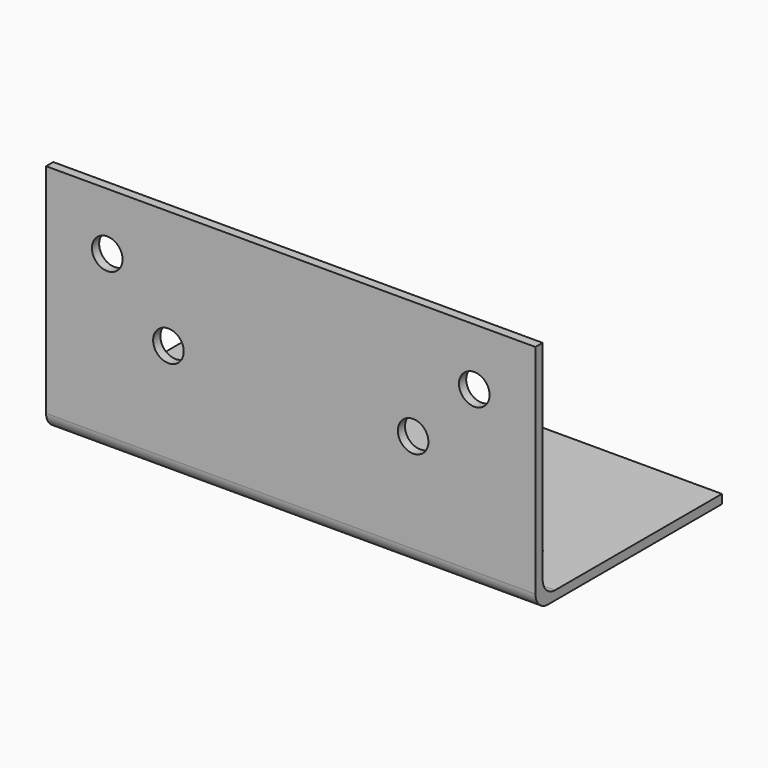
from build123d import *

# Parameters (mm, degrees)
F1_DEPTH = 40
F2_R     = 2.5
F3_DEPTH = 12.7
F4_R     = 2.5
F5_DEPTH = 12.7


with BuildPart() as f1:
    # F0 (on Right) → F1 (new body, symmetric)
    with BuildSketch(Plane.YZ):
        with BuildLine():
            Line((1.4732, 38.1), (0, 38.1))
            Line((0, 38.1), (0, 2.54))
            ThreePointArc((0, 2.54), (0.7439487758, 0.7439487758), (2.54, 0))
            Line((2.54, 0), (38.1, 0))
            Line((38.1, 0), (38.1, 1.4732))
            Line((38.1, 1.4732), (4.0132, 1.4732))
            ThreePointArc((4.0132, 1.4732), (2.2171487758, 2.2171487758), (1.4732, 4.0132))
            Line((1.4732, 4.0132), (1.4732, 38.1))
        make_face()
    extrude(amount=F1_DEPTH, both=True)

    # F2 (on Top) → F3 (cut, symmetric)
    with BuildSketch(Plane.XY):
        with Locations((-30, 10)):
            Circle(F2_R)
        with Locations((0, 10)):
            Circle(F2_R)
        with Locations((30, 10)):
            Circle(F2_R)
    extrude(amount=F3_DEPTH, both=True, mode=Mode.SUBTRACT)

    # F4 (on Front) → F5 (cut, symmetric)
    with BuildSketch(Plane.XZ):
        with Locations((-30, 28.75)):
            Circle(F4_R)
        with Locations((30, 28.75)):
            Circle(F4_R)
        with Locations((20, 18.75)):
            Circle(F4_R)
        with Locations((-20, 18.75)):
            Circle(F4_R)
    extrude(amount=F5_DEPTH, both=True, mode=Mode.SUBTRACT)


solid = f1.part
